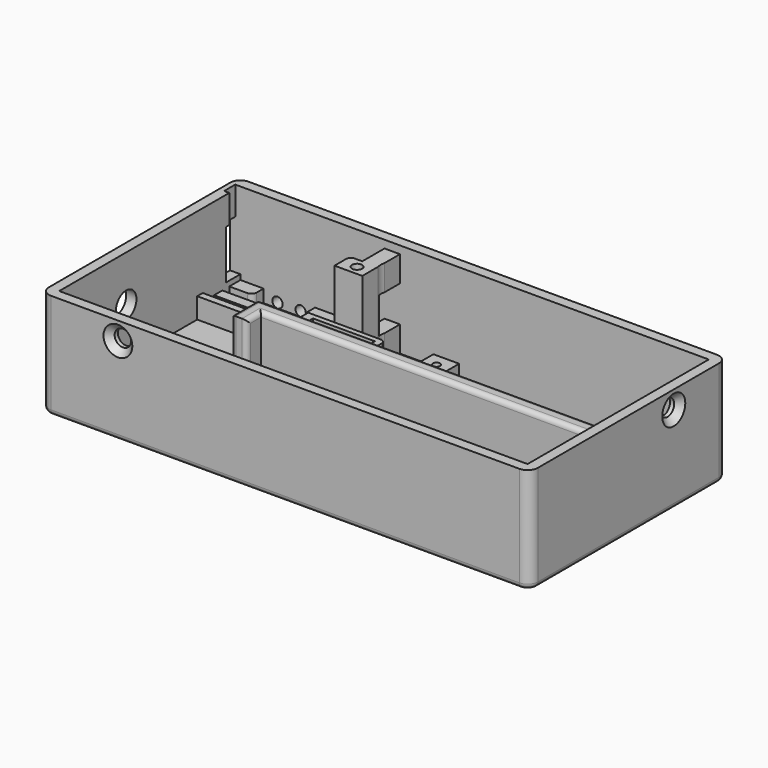
from build123d import *

# Parameters (mm, degrees)
SKETCH_W             = 95
SKETCH_H             = 48
PAD_DEPTH            = 2
SKETCH001_W          = 95
SKETCH001_H          = 48
SKETCH001_W_2        = 91
SKETCH001_H_2        = 44
PAD001_DEPTH         = 18.5
SKETCH002_W          = 43.5
SKETCH002_H          = 20.5
POCKET_DEPTH         = 5
SKETCH003_W          = 5
SKETCH003_H          = 20.5
PAD002_DEPTH         = 2
SKETCH004_R          = 0.7
POCKET001_DEPTH      = 3
SKETCH005_W          = 4.5
SKETCH005_H          = 2.7
SKETCH005_W_2        = 5.5
SKETCH005_W_3        = 20
SKETCH005_H_2        = 2
SKETCH005_W_4        = 12
SKETCH005_H_3        = 1
SKETCH005_W_5        = 2
PAD003_DEPTH         = 2.5
PAD004_DEPTH         = 17
SKETCH007_W          = 1
SKETCH007_H          = 2.7
POCKET002_DEPTH      = 14
SKETCH008_W          = 3.5
SKETCH008_H          = 9.5
POCKET003_DEPTH      = 2
SKETCH009_R          = 1
POCKET004_DEPTH      = 2
PAD005_DEPTH         = 4
SKETCH011_W          = 70
SKETCH011_H          = 3
SKETCH011_W_2        = 2
SKETCH011_H_2        = 3.5
SKETCH011_W_3        = 3
PAD006_DEPTH         = 15
SKETCH012_W          = 15
SKETCH012_H          = 12.85
PAD007_DEPTH         = 7.3
SKETCH013_W          = 12
SKETCH013_H          = 10.8
POCKET005_DEPTH      = 4
SKETCH014_W          = 5
SKETCH014_H          = 5
POCKET006_DEPTH      = 6
SKETCH015_R          = 3.2
POCKET007_DEPTH      = 5
POCKET007_DEPTH_BACK = 100
SKETCH017_R          = 1
POCKET008_DEPTH      = 10
SKETCH018_R          = 1.6
POCKET009_DEPTH      = 5
SKETCH019_R          = 1.6
POCKET010_DEPTH      = 5
SKETCH026_R          = 2.1
SKETCH026_R_2        = 2.5
POCKET014_DEPTH      = 5
FILLET003_R          = 2
FILLET004_R          = 1.95
CHAMFER001_SIZE      = 2
FILLET005_R          = 1
CHAMFER003_SIZE      = 1.2
CHAMFER004_SIZE      = 1.2
FILLET013_R          = 1
FILLET014_R          = 0.9
SKETCH049_W          = 3
SKETCH049_H          = 1
POCKET020_DEPTH      = 2.5
SKETCH050_W          = 5
SKETCH050_H          = 7
POCKET021_DEPTH      = 5


with BuildPart() as part:
    # Sketch → Pad (new body)
    with BuildSketch(Plane.XY):
        with Locations((47.5, 24)):
            Rectangle(SKETCH_W, SKETCH_H)
    extrude(amount=PAD_DEPTH)

    # Sketch001 (on Face6 of Pad) → Pad001 (join)
    with BuildSketch(Plane.XY.offset(2)):
        with Locations((47.5, 24)):
            Rectangle(SKETCH001_W, SKETCH001_H)
        with Locations((47.5, 24)):
            Rectangle(SKETCH001_W_2, SKETCH001_H_2, mode=Mode.SUBTRACT)
    extrude(amount=PAD001_DEPTH)

    # Sketch002 (on Face15 of Pad001) → Pocket (cut)
    with BuildSketch(Plane.XY.offset(2)):
        with Locations((66.25, 35.75)):
            Rectangle(SKETCH002_W, SKETCH002_H)
    extrude(amount=-POCKET_DEPTH, mode=Mode.SUBTRACT)

    # Sketch003 (on Face15 of Pocket) → Pad002 (join)
    with BuildSketch(Plane.XY.offset(2)):
        with Locations((42, 35.75)):
            Rectangle(SKETCH003_W, SKETCH003_H)
        with Locations((90.5, 35.75)):
            Rectangle(SKETCH003_W, SKETCH003_H)
    extrude(amount=PAD002_DEPTH)

    # Sketch004 (on Face26 of Pad002) → Pocket001 (cut)
    with BuildSketch(Plane.XY.offset(4)):
        with Locations((90.2, 43.6)):
            Circle(SKETCH004_R)
        with Locations((90.2, 28.6)):
            Circle(SKETCH004_R)
        with Locations((42, 43.6)):
            Circle(SKETCH004_R)
        with Locations((42, 28.6)):
            Circle(SKETCH004_R)
    extrude(amount=-POCKET001_DEPTH, mode=Mode.SUBTRACT)

    # Sketch005 (on Face16 of Pocket001) → Pad003 (join)
    with BuildSketch(Plane.XY.offset(2)):
        with Locations((4.25, 44.65)):
            Rectangle(SKETCH005_W, SKETCH005_H)
        with Locations((19.25, 44.65)):
            Rectangle(SKETCH005_W_2, SKETCH005_H)
        with Locations((12, 40.6)):
            Rectangle(SKETCH005_W_3, SKETCH005_H_2)
        with Locations((8, 37.35)):
            Rectangle(SKETCH005_W_4, SKETCH005_H_3)
        with Locations((21, 37.35)):
            Rectangle(SKETCH005_W_5, SKETCH005_H_3)
    extrude(amount=PAD003_DEPTH)

    # Sketch006 (on Face16 of Pad003) → Pad004 (join)
    with BuildSketch(Plane.XY.offset(2)):
        Polygon((30, 46), (33, 46), (33, 36.85), (27.6, 36.85), (27.6, 40.6), (30, 40.6), align=None)
    extrude(amount=PAD004_DEPTH)

    # Sketch007 (on Face13 of Pad004) → Pocket002 (cut)
    with BuildSketch(Plane.XY.offset(20.5)):
        with Locations((1.5, 44.65)):
            Rectangle(SKETCH007_W, SKETCH007_H)
    extrude(amount=-POCKET002_DEPTH, mode=Mode.SUBTRACT)

    # Sketch008 (on Face7 of Pocket002) → Pocket003 (cut)
    with BuildSketch(Plane(origin=(0, 0, 0), x_dir=(0, -1, 0), z_dir=(-1, 0, 0))):
        with Locations((-44.25, 10.25)):
            Rectangle(SKETCH008_W, SKETCH008_H)
    extrude(amount=-POCKET003_DEPTH, mode=Mode.SUBTRACT)

    # Sketch009 (on Face14 of Pocket003) → Pocket004 (cut)
    with BuildSketch(Plane(origin=(0, 48, 0), x_dir=(-1, 0, 0), z_dir=(0, 1, 0))):
        with Locations((-9.2, 3)):
            Circle(SKETCH009_R)
        with Locations((-13.7, 3)):
            Circle(SKETCH009_R)
    extrude(amount=-POCKET004_DEPTH, mode=Mode.SUBTRACT)

    # Sketch010 (on Face20 of Pocket004) → Pad005 (join)
    with BuildSketch(Plane.XY.offset(2)):
        Polygon((2, 35.5), (20.5, 35.5), (20.5, 2), (22.5, 2), (22.5, 36.85), (20, 36.85), (20, 35.85), (14, 35.85), (14, 36.85), (2, 36.85), align=None)
    extrude(amount=PAD005_DEPTH)

    # Sketch011 (on Face20 of Pad005) → Pad006 (join)
    with BuildSketch(Plane.XY.offset(2)):
        with Locations((58, 22.5)):
            Rectangle(SKETCH011_W, SKETCH011_H)
        with Locations((92, 3.75)):
            Rectangle(SKETCH011_W_2, SKETCH011_H_2)
        with Locations((92, 19.25)):
            Rectangle(SKETCH011_W_2, SKETCH011_H_2)
        with Locations((24.5, 19.25)):
            Rectangle(SKETCH011_W_3, SKETCH011_H_2)
        with Locations((24.5, 3.75)):
            Rectangle(SKETCH011_W_3, SKETCH011_H_2)
    extrude(amount=PAD006_DEPTH)

    # Sketch012 (on Face20 of Pad006) → Pad007 (join)
    with BuildSketch(Plane.XY.offset(2)):
        with Locations((30, 30.425)):
            Rectangle(SKETCH012_W, SKETCH012_H)
    extrude(amount=PAD007_DEPTH)

    # Sketch013 (on Face73 of Pad007) → Pocket005 (cut)
    with BuildSketch(Plane.XY.offset(9.3)):
        with Locations((30.25, 30.425)):
            Rectangle(SKETCH013_W, SKETCH013_H)
    extrude(amount=-POCKET005_DEPTH, mode=Mode.SUBTRACT)

    # Sketch014 (on Face107 of Pocket005) → Pocket006 (cut)
    with BuildSketch(Plane.XY.offset(5.3)):
        with Locations((30.25, 30.425)):
            Rectangle(SKETCH014_W, SKETCH014_H)
    extrude(amount=-POCKET006_DEPTH, mode=Mode.SUBTRACT)

    # Sketch015 (on Face25 of Pocket006) → Pocket007 (cut, two sides)
    with BuildSketch(Plane.XY.offset(2)) as pocket007_sk:
        with Locations((36.1, 41.5)):
            Circle(SKETCH015_R)
    extrude(amount=-POCKET007_DEPTH, mode=Mode.SUBTRACT)
    extrude(pocket007_sk.sketch, amount=POCKET007_DEPTH_BACK, mode=Mode.SUBTRACT)

    # Sketch017 (on Face27 of Pocket007) → Pocket008 (cut)
    with BuildSketch(Plane.XY.offset(19)):
        with Locations((30.5, 38.7)):
            Circle(SKETCH017_R)
    extrude(amount=-POCKET008_DEPTH, mode=Mode.SUBTRACT)

    # Sketch018 (on Face5 of Pocket008) → Pocket009 (cut)
    with BuildSketch(Plane.XZ):
        with Locations((15, 17)):
            Circle(SKETCH018_R)
    extrude(amount=-POCKET009_DEPTH, mode=Mode.SUBTRACT)

    # Sketch019 (on Face8 of Pocket009) → Pocket010 (cut)
    with BuildSketch(Plane.YZ.offset(95)):
        with Locations((35, 17)):
            Circle(SKETCH019_R)
    extrude(amount=-POCKET010_DEPTH, mode=Mode.SUBTRACT)

    # Sketch026 (on Face7 of Pocket010) → Pocket014 (cut)
    with BuildSketch(Plane(origin=(0, 0, 0), x_dir=(0, -1, 0), z_dir=(-1, 0, 0))):
        with Locations((-11.5, 11.5)):
            Circle(SKETCH026_R)
        with Locations((-18.25, 11.5)):
            Circle(SKETCH026_R_2)
    extrude(amount=-POCKET014_DEPTH, mode=Mode.SUBTRACT)

    # Fillet003
    fillet003_edges = [part.edges().sort_by_distance(p)[0] for p in [
        (0, 0, 1),
        (95, 0, 11.25),
        (95, 48, 11.25),
    ]]
    fillet(fillet003_edges, radius=FILLET003_R)

    # Fillet004
    fillet004_edges = [part.edges().sort_by_distance(p)[0] for p in [
        (0, 48, 1),
    ]]
    fillet(fillet004_edges, radius=FILLET004_R)

    # Chamfer001
    chamfer001_edges = [part.edges().sort_by_distance(p)[0] for p in [
        (30.25, 27.925, 0),
        (32.75, 30.425, 0),
        (30.25, 32.925, 0),
        (27.75, 30.425, 0),
    ]]
    chamfer(chamfer001_edges, length=CHAMFER001_SIZE)

    # Fillet005
    fillet005_edges = [part.edges().sort_by_distance(p)[0] for p in [
        (47.475, 48, 0),
    ]]
    fillet(fillet005_edges, radius=FILLET005_R)

    # Chamfer003
    chamfer003_edges = [part.edges().sort_by_distance(p)[0] for p in [
        (95, 33.4, 17),
    ]]
    chamfer(chamfer003_edges, length=CHAMFER003_SIZE)

    # Chamfer004
    chamfer004_edges = [part.edges().sort_by_distance(p)[0] for p in [
        (13.4, 0, 17),
    ]]
    chamfer(chamfer004_edges, length=CHAMFER004_SIZE)

    # Fillet013
    fillet013_edges = [part.edges().sort_by_distance(p)[0] for p in [
        (6.5, 43.3, 3.25),
        (16.5, 43.3, 3.25),
        (22, 43.3, 3.25),
        (22, 39.6, 3.25),
    ]]
    fillet(fillet013_edges, radius=FILLET013_R)

    # Fillet014
    fillet014_edges = [part.edges().sort_by_distance(p)[0] for p in [
        (22, 41.6, 3.25),
        (37.5, 36.85, 5.65),
        (27.6, 40.6, 10.5),
        (26, 17.5, 9.5),
        (26, 5.5, 9.5),
        (91, 17.5, 9.5),
        (91, 5.5, 9.5),
        (23, 17.5, 9.5),
        (23, 5.5, 9.5),
        (22.5, 13, 6),
        (58.5, 21, 17),
        (26, 19.25, 17),
        (23, 19.25, 17),
        (23, 22.5, 17),
        (58, 24, 17),
        (23, 3.75, 17),
        (24.5, 5.5, 17),
        (26, 3.75, 17),
        (91, 19.25, 17),
        (91, 3.75, 17),
        (92, 5.5, 17),
    ]]
    fillet(fillet014_edges, radius=FILLET014_R)

    # Sketch049 (on Face36 of Fillet014) → Pocket020 (cut)
    with BuildSketch(Plane.XY.offset(4.5)):
        with Locations((3.5, 37.35)):
            Rectangle(SKETCH049_W, SKETCH049_H)
    extrude(amount=-POCKET020_DEPTH, mode=Mode.SUBTRACT)

    # Sketch050 (on Face30 of Pocket020) → Pocket021 (cut)
    with BuildSketch(Plane(origin=(30, 0, 0), x_dir=(0, -1, 0), z_dir=(-1, 0, 0))):
        with Locations((-43.5, 10.5)):
            Rectangle(SKETCH050_W, SKETCH050_H)
    extrude(amount=-POCKET021_DEPTH, mode=Mode.SUBTRACT)


solid = part.part
